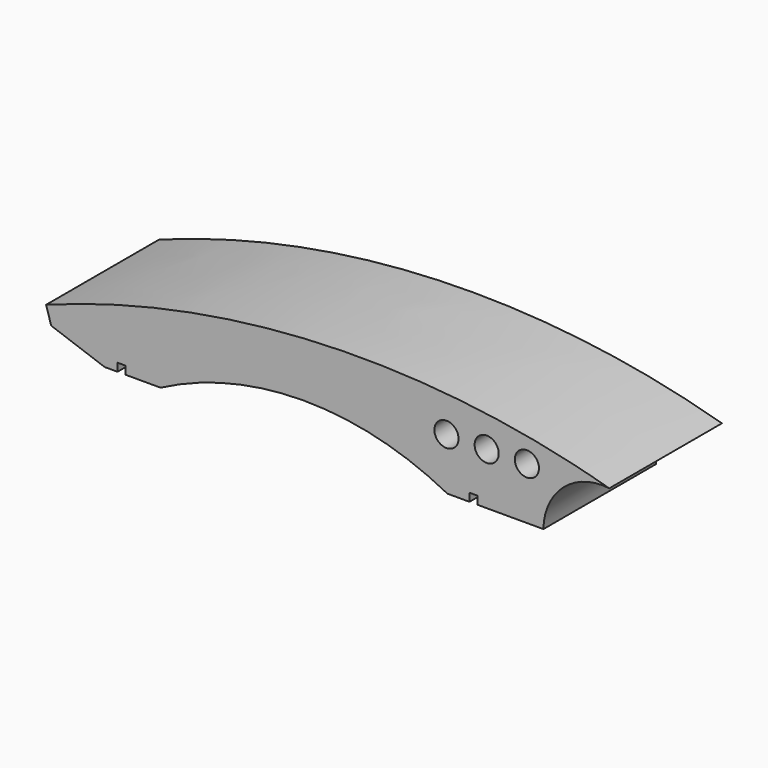
from build123d import *

# Parameters (mm, degrees)
F0_W          = 177.8
F0_H          = 31.75
F5_DEPTH      = 22.225
F1_W          = 2.54
F1_H          = 2.54
F2_DEPTH      = 22.225
F2_DEPTH_BACK = 22.225
F3_R          = 3.81
F4_DEPTH      = 101.6


with BuildPart() as f5:
    # F0 (on Front) → F5 (new body, symmetric)
    with BuildSketch(Plane.XZ):
        Rectangle(F0_W, F0_H)
    extrude(amount=F5_DEPTH, both=True)

    # F1 (on Front) → F2 (cut, two sides)
    with BuildSketch(Plane.XZ) as f2_sk:
        with Locations((-65.0875, -14.605)):
            Rectangle(F1_W, F1_H)
        with Locations((46.0375, -14.605)):
            Rectangle(F1_W, F1_H)
    extrude(amount=F2_DEPTH, mode=Mode.SUBTRACT)
    extrude(f2_sk.sketch, amount=-F2_DEPTH_BACK, mode=Mode.SUBTRACT)

    # F3 (on face) → F4 (cut)
    with BuildSketch(Plane.XZ.offset(22.225)):
        with BuildLine():
            Line((-87.2850343585, -9.8690753803), (-88.9, -4.5820707456))
            add(Edge.make_bspline(
                [(-88.9, -4.5820707456), (-23.5271696001, 19.7381507605), (41.3550932653, 15.875), (88.9, 2.2290744901)],
                knots=[0, 0, 0, 0, 177.9304125197, 177.9304125197, 177.9304125197, 177.9304125197], degree=3))
            ThreePointArc((88.9, 2.2290744901), (74.4536678544, -2.1727649281), (68.10375, -15.875))
            Line((68.10375, -15.875), (90.8870175481, -24.3202205747))
            Line((90.8870175481, -24.3202205747), (97.0551893115, -13.2175106555))
            Line((97.0551893115, -13.2175106555), (95.2541902661, 10.2215418592))
            Line((95.2541902661, 10.2215418592), (84.6801921725, 31.5457955003))
            Line((84.6801921725, 31.5457955003), (-24.4083367288, 31.5457955003))
            Line((-24.4083367288, 31.5457955003), (-91.2008285522, 31.5457955003))
            Line((-91.2008285522, 31.5457955003), (-99.3075743318, -4.2296038009))
            Line((-99.3075743318, -4.2296038009), (-93.3156237006, -24.4964528829))
            Line((-93.3156237006, -24.4964528829), (-70.4052746296, -15.875))
            Line((-70.4052746296, -15.875), (-87.2850343585, -9.8690753803))
        make_face()
        with Locations((37.4968686472, 0.5141830338)):
            Circle(F3_R)
        with Locations((50.1968686472, 0.5141830338)):
            Circle(F3_R)
        with Locations((62.8967040475, 0.578842176)):
            Circle(F3_R)
        with BuildLine():
            Line((-8.0186231062, -30.1359239966), (37.8020815551, -15.875))
            ThreePointArc((37.8020815551, -15.875), (-7.4899233878, -4.7422597793), (-52.7819283307, -15.875))
            Line((-52.7819283307, -15.875), (-8.0186231062, -30.1359239966))
        make_face()
    extrude(amount=-F4_DEPTH, mode=Mode.SUBTRACT)


solid = f5.part
